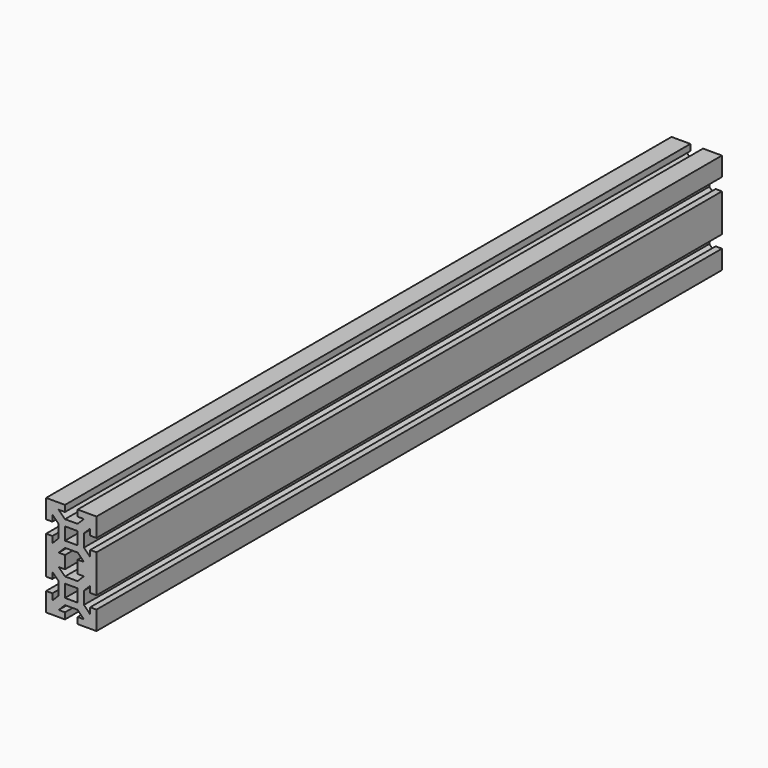
from build123d import *

# Parameters (mm, degrees)
F1_DEPTH = 620


with BuildPart() as f1:
    # F0 (on Front) → F1 (new body)
    with BuildSketch(Plane.XZ):
        Polygon((5, -20), (20, -20), (20, -5), (15, -5), (15, -10), (10, -5), (10, 5), (15, 10), (15, 5), (20, 5), (20, 20), (20, 35), (15, 35), (15, 30), (10, 35), (10, 45), (15, 50), (15, 45), (20, 45), (20, 60), (5, 60), (5, 55), (10, 55), (5, 50), (-5, 50), (-10, 55), (-5, 55), (-5, 60), (-20, 60), (-20, 45), (-15, 45), (-15, 50), (-10, 45), (-10, 35), (-15, 30), (-15, 35), (-20, 35), (-20, 20), (-20, 5), (-15, 5), (-15, 10), (-10, 5), (-10, -5), (-15, -10), (-15, -5), (-20, -5), (-20, -20), (-5, -20), (-5, -15), (-10, -15), (-5, -10), (5, -10), (10, -15), (5, -15), align=None)
        Polygon((-5, 0), (-5, 5), (0, 5), (5, 5), (5, 0), (5, -5), (0, -5), (-5, -5), align=None, mode=Mode.SUBTRACT)
        Polygon((-5, 15), (-5, 20), (-5, 25), (-10, 25), (-5, 30), (5, 30), (10, 25), (5, 25), (5, 20), (5, 15), (10, 15), (5, 10), (-5, 10), (-10, 15), align=None, mode=Mode.SUBTRACT)
        Polygon((-5, 40), (-5, 45), (0, 45), (5, 45), (5, 40), (5, 35), (0, 35), (-5, 35), align=None, mode=Mode.SUBTRACT)
    extrude(amount=F1_DEPTH)


solid = f1.part
